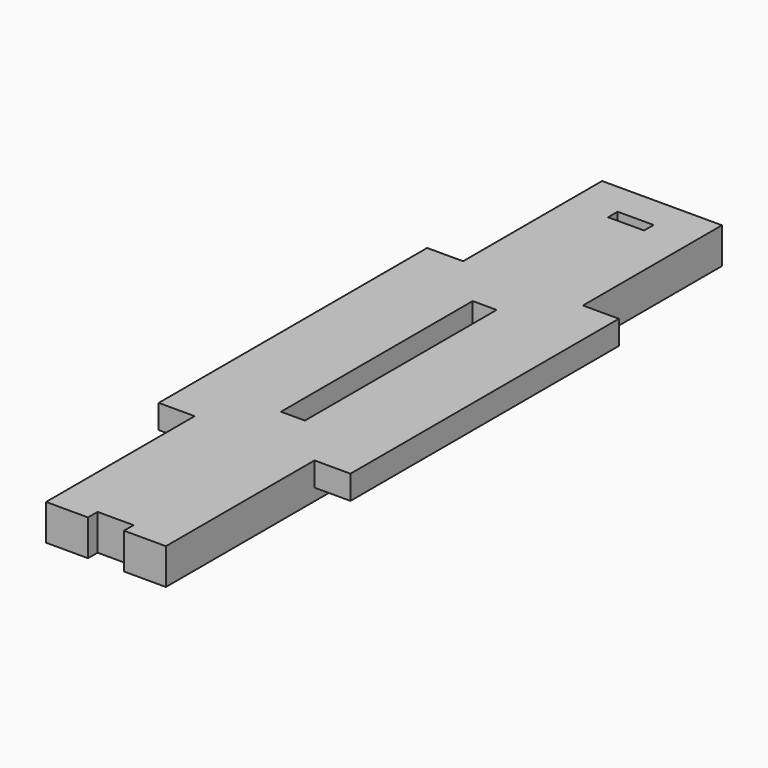
from build123d import *

# Parameters (mm, degrees)
F1_DEPTH = 3.175
F2_W     = 15.875
F2_H     = 92.075
F3_DEPTH = 1.5875
F4_W     = 3.175
F4_H     = 31.75
F5_DEPTH = 3.175
F6_W     = 4.7625
F6_H     = 1.5875
F7_DEPTH = 4.7635
F8_W     = 4.7625
F8_H     = 1.5875
F9_DEPTH = 4.7635


with BuildPart() as f1:
    # F0 (on Top) → F1 (new body)
    with BuildSketch(Plane.XY):
        Polygon((7.9375, 49.2125), (-7.9375, 49.2125), (-7.9375, 26.19375), (-12.7, 26.19375), (-12.7, -18.25625), (-7.9375, -18.25625), (-7.9375, -42.8625), (7.9375, -42.8625), (7.9375, -18.25625), (12.7, -18.25625), (12.7, 26.19375), (7.9375, 26.19375), align=None)
    extrude(amount=F1_DEPTH)

    # F2 (on face) → F3 (join)
    with BuildSketch(Plane(origin=(0, 0, 0), x_dir=(1, 0, 0), z_dir=(0, 0, -1))):
        with Locations((0, -3.175)):
            Rectangle(F2_W, F2_H)
    extrude(amount=F3_DEPTH)

    # F4 (on face) → F5 (cut)
    with BuildSketch(Plane.XY.offset(3.175)):
        with Locations((0, 3.96875)):
            Rectangle(F4_W, F4_H)
    extrude(amount=-F5_DEPTH, mode=Mode.SUBTRACT)

    # F6 (on face) → F7 (cut, through all)
    with BuildSketch(Plane.XY.offset(3.175)):
        with Locations((0, -42.06875)):
            Rectangle(F6_W, F6_H)
    extrude(amount=-F7_DEPTH, mode=Mode.SUBTRACT)

    # F8 (on face) → F9 (cut, through all)
    with BuildSketch(Plane.XY.offset(3.175)):
        with Locations((0, 44.053125)):
            Rectangle(F8_W, F8_H)
    extrude(amount=-F9_DEPTH, mode=Mode.SUBTRACT)


solid = f1.part
